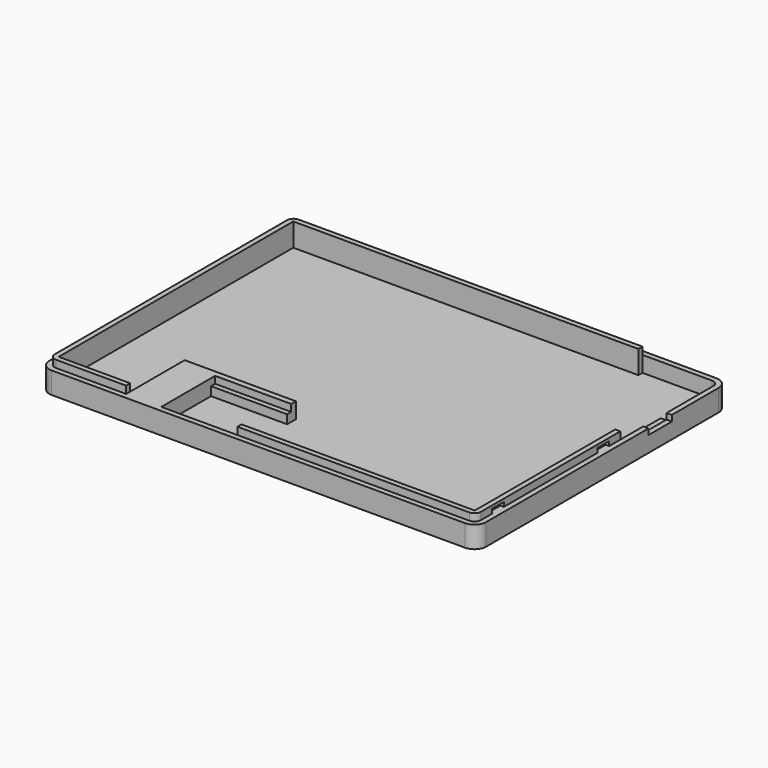
from build123d import *

# Parameters (mm, degrees)
PAD_DEPTH       = 2
PAD001_DEPTH    = 5.4
SKETCH002_W     = 26
SKETCH002_H     = 3.75
SKETCH002_H_2   = 1.75
SKETCH002_W_2   = 12
SKETCH002_H_3   = 25
PAD002_DEPTH    = 3
PAD003_DEPTH    = 2.4
PAD005_DEPTH    = 7.9
SKETCH007_W     = 5
SKETCH007_H     = 1.5
POCKET001_DEPTH = 1.2
SKETCH008_W     = 5
SKETCH008_H     = 1.5
POCKET002_DEPTH = 1.2
SKETCH009_W     = 10
SKETCH009_H     = 2
POCKET003_DEPTH = 1.8
SKETCH020_W     = 5
SKETCH020_H     = 1.5
POCKET009_DEPTH = 1.2
SKETCH021_W     = 2
SKETCH021_H     = 15
PAD010_DEPTH    = 1.5


with BuildPart() as part:
    # Sketch → Pad (new body)
    with BuildSketch(Plane.XY):
        with BuildLine():
            Line((149.26, 103.29), (149.26, 4))
            ThreePointArc((145.26, 0), (148.088427, 1.171573), (149.26, 4))
            Line((4, 0), (145.26, 0))
            ThreePointArc((0, 4), (1.171573, 1.171573), (4, 0))
            Line((0, 103.29), (0, 4))
            ThreePointArc((4, 107.29), (1.171573, 106.118427), (0, 103.29))
            Line((4, 107.29), (145.26, 107.29))
            ThreePointArc((149.26, 103.29), (148.088427, 106.118427), (145.26, 107.29))
        make_face()
    extrude(amount=PAD_DEPTH)

    # Sketch001 (on Face10 of Pad) → Pad001 (join)
    with BuildSketch(Plane.XY.offset(2)):
        with BuildLine():
            ThreePointArc((4, 107.29), (1.171573, 106.118427), (0, 103.29))
            Line((0, 4), (0, 103.29))
            ThreePointArc((0, 4), (1.171573, 1.171573), (4, 0))
            Line((145.26, 0), (4, 0))
            ThreePointArc((145.26, 0), (148.088427, 1.171573), (149.26, 4))
            Line((149.26, 103.29), (149.26, 4))
            ThreePointArc((149.26, 103.29), (148.088427, 106.118427), (145.26, 107.29))
            Line((4, 107.29), (145.26, 107.29))
        make_face()
        with BuildLine():
            Line((4, 105.49), (145.26, 105.49))
            ThreePointArc((147.46, 103.289998), (146.815636, 104.845634), (145.26, 105.49))
            Line((147.46, 103.289998), (147.46, 3.999998))
            ThreePointArc((145.259998, 1.8), (146.815633, 2.444364), (147.46, 3.999998))
            Line((145.259998, 1.8), (3.999998, 1.8))
            ThreePointArc((1.8, 4), (2.444364, 2.444366), (3.999998, 1.8))
            Line((1.8, 4), (1.8, 103.29))
            ThreePointArc((4, 105.49), (2.444365, 104.845635), (1.8, 103.29))
        make_face(mode=Mode.SUBTRACT)
    extrude(amount=PAD001_DEPTH)

    # Sketch002 (on Face10 of Pad001) → Pad002 (join)
    with BuildSketch(Plane.XY.offset(2)):
        with Locations((53, 24.925)):
            Rectangle(SKETCH002_W, SKETCH002_H)
        with Locations((53, 2.675)):
            Rectangle(SKETCH002_W, SKETCH002_H_2)
        with Locations((34, 14.3)):
            Rectangle(SKETCH002_W_2, SKETCH002_H_3)
    extrude(amount=PAD002_DEPTH)

    # Sketch003 (on Face21 of Pad002) → Pad003 (join)
    with BuildSketch(Plane.XY.offset(5)):
        Polygon((28, 1.8), (28, 26.8), (66, 26.8), (66, 24.8), (40, 24.8), (40, 1.8), align=None)
    extrude(amount=PAD003_DEPTH)

    # Sketch006 (on Face22 of Pad003) → Pad005 (join)
    with BuildSketch(Plane.XY.offset(2)):
        with BuildLine():
            ThreePointArc((1.8, 4), (2.444364, 2.444366), (3.999998, 1.8))
            Line((3.999998, 1.8), (28, 1.8))
            Line((28, 1.8), (28, 3.55))
            Line((28, 3.55), (3.55, 3.55))
            Line((3.55, 3.55), (3.55, 103.74))
            Line((3.55, 103.74), (121.46, 103.74))
            Line((121.46, 103.74), (121.46, 105.49))
            Line((121.46, 105.49), (3.999988, 105.49))
            ThreePointArc((3.999988, 105.49), (2.444361, 104.845631), (1.8, 103.29))
            Line((1.8, 103.29), (1.8, 4))
        make_face()
        with BuildLine():
            ThreePointArc((145.259998, 1.8), (146.815633, 2.444364), (147.46, 3.999997))
            Line((147.46, 63.55), (147.46, 3.999997))
            Line((145.71, 63.55), (147.46, 63.55))
            Line((145.71, 63.55), (145.71, 3.55))
            Line((66, 3.55), (145.71, 3.55))
            Line((66, 1.8), (66, 3.55))
            Line((145.259998, 1.8), (66, 1.8))
        make_face()
    extrude(amount=PAD005_DEPTH)

    # Sketch007 (on Face11 of Pad005) → Pocket001 (cut)
    with BuildSketch(Plane(origin=(1.8, 0, 0), x_dir=(0, -1, 0), z_dir=(-1, 0, 0))):
        with Locations((-95.99, 8.15)):
            Rectangle(SKETCH007_W, SKETCH007_H)
        with Locations((-11.3, 8.15)):
            Rectangle(SKETCH007_W, SKETCH007_H)
    extrude(amount=-POCKET001_DEPTH, mode=Mode.SUBTRACT)

    # Sketch008 (on Face38 of Pocket001) → Pocket002 (cut)
    with BuildSketch(Plane.YZ.offset(147.46)):
        with Locations((11.3, 8.15)):
            Rectangle(SKETCH008_W, SKETCH008_H)
        with Locations((56.3, 8.15)):
            Rectangle(SKETCH008_W, SKETCH008_H)
    extrude(amount=-POCKET002_DEPTH, mode=Mode.SUBTRACT)

    # Sketch009 (on Face4 of Pocket002) → Pocket003 (cut)
    with BuildSketch(Plane.YZ.offset(149.26)):
        with Locations((78.29, 6.4)):
            Rectangle(SKETCH009_W, SKETCH009_H)
    extrude(amount=-POCKET003_DEPTH, mode=Mode.SUBTRACT)

    # Sketch020 (on Face17 of Pocket003) → Pocket009 (cut)
    with BuildSketch(Plane(origin=(0, 105.49, 0), x_dir=(-1, 0, 0), z_dir=(0, 1, 0))):
        with Locations((-111.96, 8.15)):
            Rectangle(SKETCH020_W, SKETCH020_H)
    extrude(amount=-POCKET009_DEPTH, mode=Mode.SUBTRACT)

    # Sketch021 (on Face16 of Pocket009) → Pad010 (join)
    with BuildSketch(Plane.XY.offset(2)):
        with Locations((144.46, 78.29)):
            Rectangle(SKETCH021_W, SKETCH021_H)
    extrude(amount=PAD010_DEPTH)


solid = part.part
